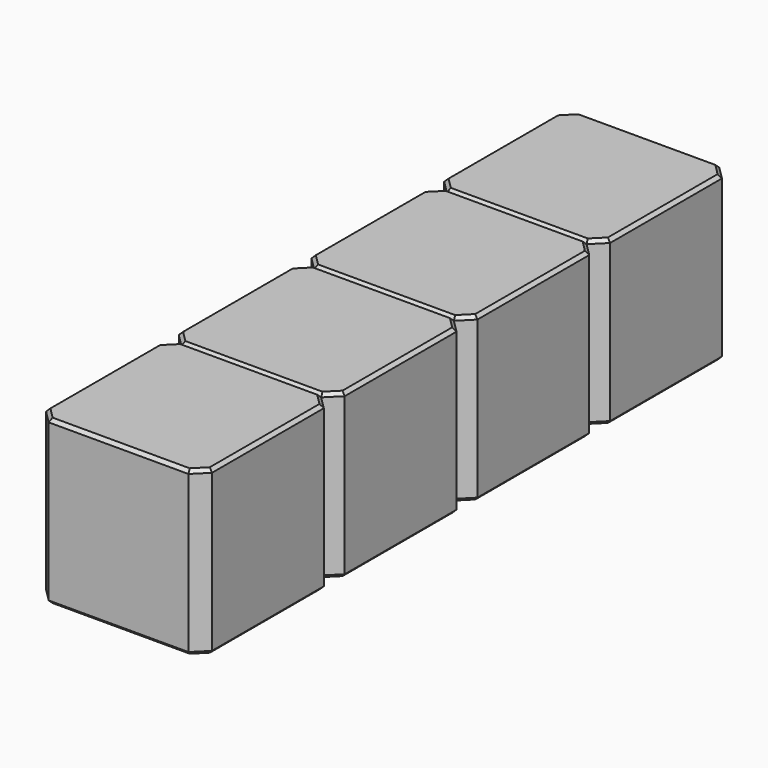
from build123d import *

# Parameters (mm, degrees)
SKETCH211_W      = 2.54
SKETCH211_H      = 2.54
PAD065_DEPTH     = 2.5
CHAMFER016_SIZE  = 0.2
CHAMFER015_SIZE  = 0.05
ARRAY002_Y_COUNT = 4
ARRAY002_Y_PITCH = 2.54


with BuildPart() as array002:
    # Sketch211 → Pad065 (new body)
    with BuildSketch(Plane.XY):
        Rectangle(SKETCH211_W, SKETCH211_H)
    extrude(amount=PAD065_DEPTH)

    # Chamfer016
    chamfer016_edges = [array002.edges().sort_by_distance(p)[0] for p in [
        (1.27, -1.27, 1.25),
        (-1.27, -1.27, 1.25),
        (1.27, 1.27, 1.25),
        (-1.27, 1.27, 1.25),
    ]]
    chamfer(chamfer016_edges, length=CHAMFER016_SIZE)

    # Chamfer015
    chamfer015_edges = [array002.edges().sort_by_distance(p)[0] for p in [
        (0, -1.27, 2.5),
        (-1.17, -1.17, 2.5),
        (1.17, -1.17, 2.5),
        (-1.27, 0, 2.5),
        (1.27, 0, 2.5),
        (-1.17, 1.17, 2.5),
        (1.17, 1.17, 2.5),
        (0, 1.27, 2.5),
        (0, -1.27, 0),
        (-1.17, -1.17, 0),
        (1.17, -1.17, 0),
        (-1.27, 0, 0),
        (1.27, 0, 0),
        (-1.17, 1.17, 0),
        (1.17, 1.17, 0),
        (0, 1.27, 0),
    ]]
    chamfer(chamfer015_edges, length=CHAMFER015_SIZE)


with BuildPart() as array002_1:
    # Body036 placement: moved
    add(array002.part.moved(Location((-1.5, 0, 0))))


with BuildPart() as array002_copy1:
    # Array002 Y: instance of Array002
    add(array002_1.part.moved(Location(Vector(0, -1, 0) * (1 * ARRAY002_Y_PITCH))))


with BuildPart() as array002_copy2:
    # Array002 Y: instance of Array002
    add(array002_1.part.moved(Location(Vector(0, -1, 0) * (2 * ARRAY002_Y_PITCH))))


with BuildPart() as array002_copy3:
    # Array002 Y: instance of Array002
    add(array002_1.part.moved(Location(Vector(0, -1, 0) * (3 * ARRAY002_Y_PITCH))))


solid = Compound([array002_1.part, array002_copy1.part, array002_copy2.part, array002_copy3.part])
